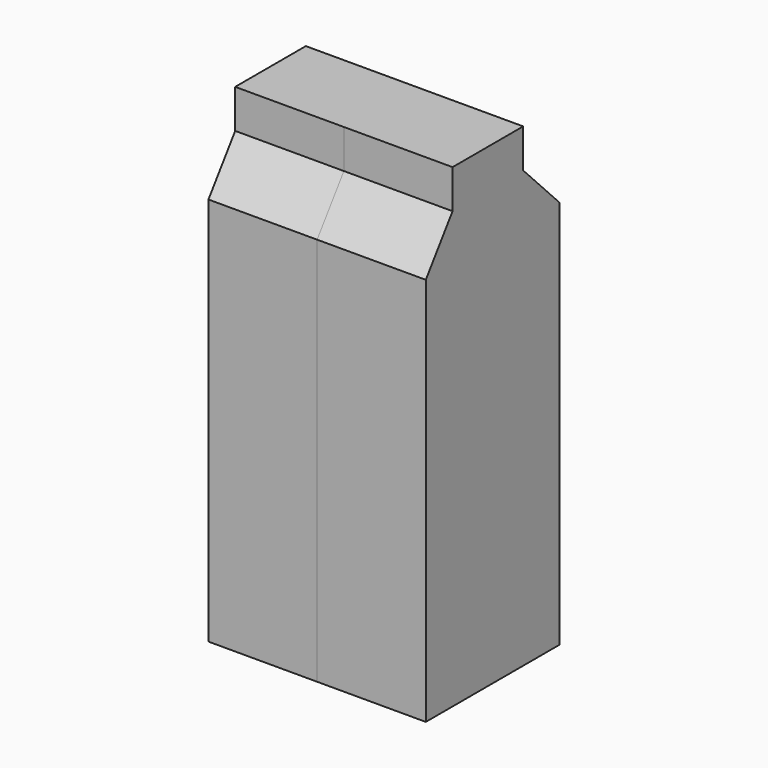
from build123d import *

# Parameters (mm, degrees)
F1_DEPTH = 25.4
F2_DEPTH = 25.4


with BuildPart() as f1:
    # F0 (on Right) → F1 (new body)
    with BuildSketch(Plane.YZ):
        Polygon((9.533734, 52.669968), (0, 52.669968), (-11.09664, 52.669968), (-11.09664, 43.605104), (9.533734, 43.605104), align=None)
        Polygon((20.161506, 32.664757), (9.533734, 43.605104), (-11.09664, 43.605104), (-18.911175, 32.664757), (-18.911175, -58.296442), (0, -58.296442), (20.161506, -58.296442), align=None)
    extrude(amount=F1_DEPTH)

    # F1_face (on face) → F2 (join)
    with BuildSketch(Plane(origin=(0, 0.509843, -5.968022), x_dir=(0, 1, 0), z_dir=(-1, 0, 0))):
        Polygon((-11.606484, -58.63799), (9.023891, -58.63799), (9.023891, -49.573126), (19.651662, -38.632779), (19.651662, 52.32842), (-19.421019, 52.32842), (-19.421019, -38.632779), (-11.606484, -49.573126), align=None)
    extrude(amount=F2_DEPTH)


solid = f1.part
